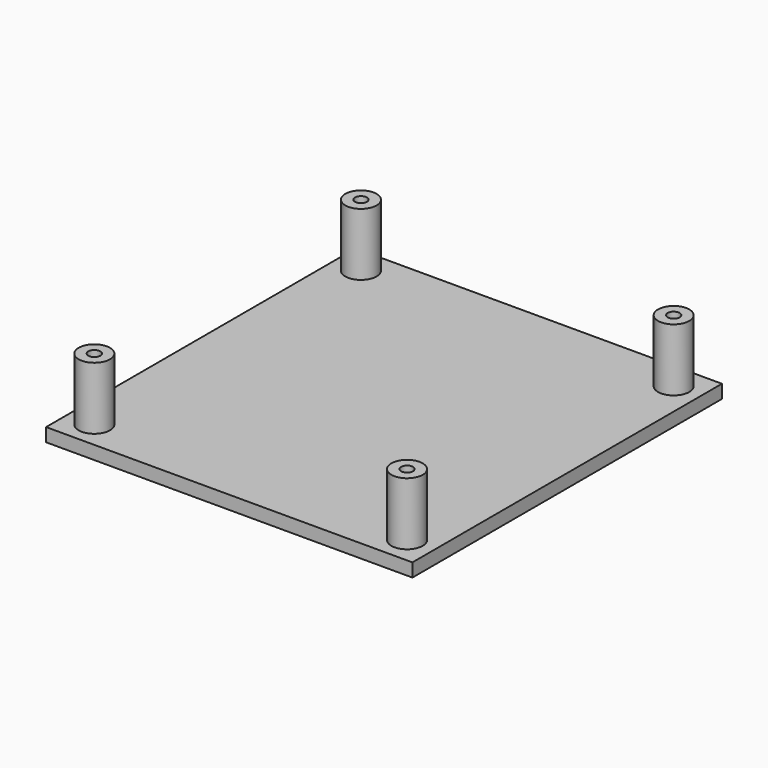
from build123d import *

# Parameters (mm, degrees)
F0_W     = 104.14
F0_H     = 109.982
F1_DEPTH = 3.81
F2_R     = 4.445
F3_DEPTH = 17.78
F6_D     = 3.4


with BuildPart() as f1:
    # F0 (on Top) → F1 (new body)
    with BuildSketch(Plane.XY):
        with Locations((0.4858896136, 8.1733651346)):
            Rectangle(F0_W, F0_H)
    extrude(amount=F1_DEPTH)

    # F2 (on face) → F3 (join)
    with BuildSketch(Plane.XY.offset(3.81)):
        with Locations((-43.9641103864, 55.5443651346)):
            Circle(F2_R)
        with Locations((44.9358896136, 55.5443651346)):
            Circle(F2_R)
        with Locations((-43.9641103864, -39.1976348654)):
            Circle(F2_R)
        with Locations((44.9358896136, -39.1976348654)):
            Circle(F2_R)
    extrude(amount=F3_DEPTH)

    # F6 (through all)
    with Locations(Plane.XY.offset(21.59)):
        with Locations((-43.9641103864, 55.5443651346), (44.9358896136, 55.5443651346), (-43.9641103864, -39.1976348654), (44.9358896136, -39.1976348654)):
            Hole(F6_D / 2)


solid = f1.part
